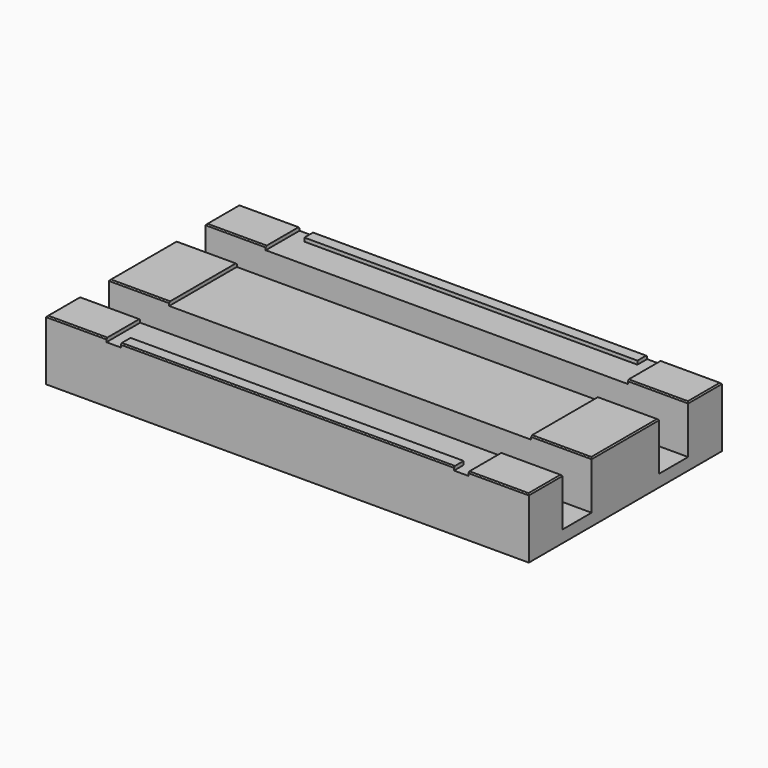
from build123d import *

# Parameters (mm, degrees)
F0_W     = 200
F0_H     = 100
F1_DEPTH = 25
F2_W     = 200
F2_H     = 15
F3_DEPTH = 20
F4_SIZE  = 0.5
F6_DEPTH = 1.5


with BuildPart() as f1:
    # F0 (on Top) → F1 (new body)
    with BuildSketch(Plane.XY):
        Rectangle(F0_W, F0_H)
    extrude(amount=-F1_DEPTH)

    # F2 (on face) → F3 (cut)
    with BuildSketch(Plane.XY):
        with Locations((0, 25.0000003725)):
            Rectangle(F2_W, F2_H)
        with Locations((0, -25.0000003725)):
            Rectangle(F2_W, F2_H)
    extrude(amount=-F3_DEPTH, mode=Mode.SUBTRACT)

    # F4
    f4_edges = [f1.edges().sort_by_distance(p)[0] for p in [
        (0, -50, 0),
        (0, -32.5, 0),
        (0, -17.5, 0),
        (0, 17.5, 0),
        (0, 32.5, 0),
        (0, 50, 0),
        (100, -41.25, 0),
        (100, 0, 0),
        (100, 41.25, 0),
        (-100, 41.25, 0),
        (-100, 0, 0),
        (-100, -41.25, 0),
    ]]
    chamfer(f4_edges, length=F4_SIZE)

    # F5 (on Top) → F6 (cut)
    with BuildSketch(Plane.XY):
        with BuildLine():
            Line((69, 55), (69, 45))
            Line((69, 45), (-69, 45))
            Line((-69, 45), (-69, 55))
            ThreePointArc((-69, 55), (-72, 58), (-75, 55))
            Line((-75, 55), (-75, -55))
            ThreePointArc((-75, -55), (-72, -52), (-69, -55))
            Line((-69, -55), (-69, -45))
            Line((-69, -45), (69, -45))
            Line((69, -45), (69, -55))
            ThreePointArc((69, -55), (72, -58), (75, -55))
            Line((75, -55), (75, 0))
            Line((75, 0), (75, 55))
            ThreePointArc((75, 55), (72, 58), (69, 55))
        make_face()
    extrude(amount=-F6_DEPTH, mode=Mode.SUBTRACT)


solid = f1.part
